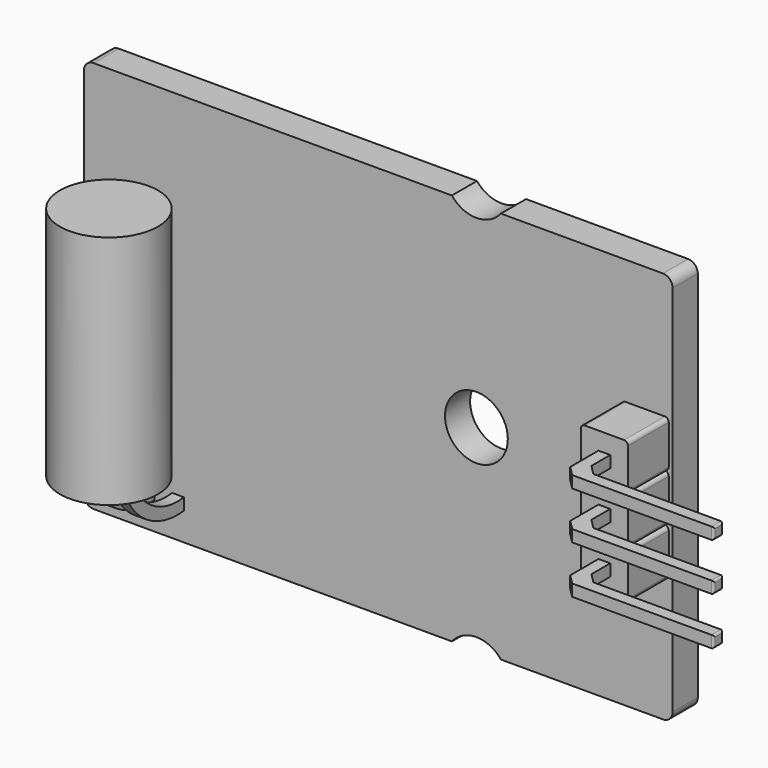
from build123d import *

# Parameters (mm, degrees)
BOX214_W                  = 0.6
BOX214_H                  = 0.6
BOX214_DEPTH              = 7.7
BOX213_W                  = 0.6
BOX213_H                  = 0.6
BOX213_DEPTH              = 7.7
CHAMFER002_SIZE           = 0.5
CHAMFER003_SIZE           = 0.5
FILLET164_R               = 0.1
BOX212_W                  = 2.4
BOX212_H                  = 2.4
BOX212_DEPTH              = 2.6
FILLET163_R               = 0.2
BOX217_W                  = 0.6
BOX217_H                  = 0.6
BOX217_DEPTH              = 7.7
BOX216_W                  = 0.6
BOX216_H                  = 0.6
BOX216_DEPTH              = 7.7
CHAMFER004_SIZE           = 0.5
CHAMFER005_SIZE           = 0.5
FILLET166_R               = 0.1
BOX215_W                  = 2.4
BOX215_H                  = 2.4
BOX215_DEPTH              = 2.6
FILLET165_R               = 0.2
BOX220_W                  = 0.6
BOX220_H                  = 0.6
BOX220_DEPTH              = 7.7
BOX219_W                  = 0.6
BOX219_H                  = 0.6
BOX219_DEPTH              = 7.7
CHAMFER006_SIZE           = 0.5
CHAMFER007_SIZE           = 0.5
FILLET168_R               = 0.1
BOX218_W                  = 2.4
BOX218_H                  = 2.4
BOX218_DEPTH              = 2.6
FILLET167_R               = 0.2
BOX221_W                  = 10
BOX221_H                  = 10
BOX221_DEPTH              = 10
BOX222_W                  = 10
BOX222_H                  = 10
BOX222_DEPTH              = 10
TUBE003_R                 = 3.6
TUBE003_R_2               = 3
TUBE003_DEPTH             = 0.6
TUBE004_R                 = 3.6
TUBE004_R_2               = 3
TUBE004_DEPTH             = 0.6
CYLINDER193_R             = 2
CYLINDER193_DEPTH         = 1
CYLINDER194_R             = 2
CYLINDER194_DEPTH         = 1
CYLINDER192_R             = 2.5
CYLINDER192_DEPTH         = 12
FUSION007_PLACEMENT_ANGLE = 90
CYLINDER191_R             = 1.6
CYLINDER191_DEPTH         = 10
CYLINDER001_R             = 1.6
CYLINDER001_DEPTH         = 10
CYLINDER190_R             = 1.6
CYLINDER190_DEPTH         = 10
BOX211_W                  = 30
BOX211_H                  = 20
BOX211_DEPTH              = 1.6
FILLET161_R               = 0.5
FILLET162_R               = 0.5
FUSION010_PLACEMENT_ANGLE = 90


with BuildPart() as cubo201:
    # Box214 → Box214 (new body)
    with BuildSketch(Plane(origin=(0, 0, 7.7), x_dir=(0, 0, -1), z_dir=(1, 0, 0))):
        with Locations((0.3, 0.3)):
            Rectangle(BOX214_W, BOX214_H)
    extrude(amount=BOX214_DEPTH)


with BuildPart() as cuerpometal:
    # Box213 → Box213 (new body)
    with BuildSketch(Plane.XY):
        with Locations((0.3, 0.3)):
            Rectangle(BOX213_W, BOX213_H)
    extrude(amount=BOX213_DEPTH)

    # Fusion139: union Cubo201
    add(cubo201.part)

    # Chamfer002
    chamfer002_edges = [cuerpometal.edges().sort_by_distance(p)[0] for p in [
        (0, 0.3, 7.7),
    ]]
    chamfer(chamfer002_edges, length=CHAMFER002_SIZE)

    # Chamfer003
    chamfer003_edges = [cuerpometal.edges().sort_by_distance(p)[0] for p in [
        (0.6, 0.3, 7.1),
    ]]
    chamfer(chamfer003_edges, length=CHAMFER003_SIZE)

    # Fillet164
    fillet164_edges = [cuerpometal.edges().sort_by_distance(p)[0] for p in [
        (7.7, 0, 7.4),
        (7.7, 0.3, 7.1),
        (7.7, 0.3, 7.7),
        (7.7, 0.6, 7.4),
    ]]
    fillet(fillet164_edges, radius=FILLET164_R)


with BuildPart() as cuerpometal_1:
    # Fillet164 placement: moved
    add(cuerpometal.part.moved(Location((0.9, 0.9, -1.2))))


with BuildPart() as obj1:
    # Box212 → Box212 (new body)
    with BuildSketch(Plane.XY.offset(1.6)):
        with Locations((1.2, 1.2)):
            Rectangle(BOX212_W, BOX212_H)
    extrude(amount=BOX212_DEPTH)

    # Fillet163
    fillet163_edges = [obj1.edges().sort_by_distance(p)[0] for p in [
        (0, 0, 2.9),
        (0, 2.4, 2.9),
        (2.4, 0, 2.9),
        (2.4, 2.4, 2.9),
    ]]
    fillet(fillet163_edges, radius=FILLET163_R)

    # Fusion001: union CuerpoMetal
    add(cuerpometal_1.part)


with BuildPart() as obj1_1:
    # Fusion001 placement: moved
    add(obj1.part.moved(Location((12.4, -1.2, 0))))


with BuildPart() as cubo204:
    # Box217 → Box217 (new body)
    with BuildSketch(Plane(origin=(0, 0, 7.7), x_dir=(0, 0, -1), z_dir=(1, 0, 0))):
        with Locations((0.3, 0.3)):
            Rectangle(BOX217_W, BOX217_H)
    extrude(amount=BOX217_DEPTH)


with BuildPart() as cuerpometal001:
    # Box216 → Box216 (new body)
    with BuildSketch(Plane.XY):
        with Locations((0.3, 0.3)):
            Rectangle(BOX216_W, BOX216_H)
    extrude(amount=BOX216_DEPTH)

    # Fusion140: union Cubo204
    add(cubo204.part)

    # Chamfer004
    chamfer004_edges = [cuerpometal001.edges().sort_by_distance(p)[0] for p in [
        (0, 0.3, 7.7),
    ]]
    chamfer(chamfer004_edges, length=CHAMFER004_SIZE)

    # Chamfer005
    chamfer005_edges = [cuerpometal001.edges().sort_by_distance(p)[0] for p in [
        (0.6, 0.3, 7.1),
    ]]
    chamfer(chamfer005_edges, length=CHAMFER005_SIZE)

    # Fillet166
    fillet166_edges = [cuerpometal001.edges().sort_by_distance(p)[0] for p in [
        (7.7, 0, 7.4),
        (7.7, 0.3, 7.1),
        (7.7, 0.3, 7.7),
        (7.7, 0.6, 7.4),
    ]]
    fillet(fillet166_edges, radius=FILLET166_R)


with BuildPart() as cuerpometal001_1:
    # Fillet166 placement: moved
    add(cuerpometal001.part.moved(Location((0.9, 0.9, -1.2))))


with BuildPart() as obj2:
    # Box215 → Box215 (new body)
    with BuildSketch(Plane.XY.offset(1.6)):
        with Locations((1.2, 1.2)):
            Rectangle(BOX215_W, BOX215_H)
    extrude(amount=BOX215_DEPTH)

    # Fillet165
    fillet165_edges = [obj2.edges().sort_by_distance(p)[0] for p in [
        (0, 0, 2.9),
        (0, 2.4, 2.9),
        (2.4, 0, 2.9),
        (2.4, 2.4, 2.9),
    ]]
    fillet(fillet165_edges, radius=FILLET165_R)

    # Fusion003: union CuerpoMetal001
    add(cuerpometal001_1.part)


with BuildPart() as obj2_1:
    # Fusion003 placement: moved
    add(obj2.part.moved(Location((12.4, 1.22, 0))))


with BuildPart() as cubo207:
    # Box220 → Box220 (new body)
    with BuildSketch(Plane(origin=(0, 0, 7.7), x_dir=(0, 0, -1), z_dir=(1, 0, 0))):
        with Locations((0.3, 0.3)):
            Rectangle(BOX220_W, BOX220_H)
    extrude(amount=BOX220_DEPTH)


with BuildPart() as cuerpometal002:
    # Box219 → Box219 (new body)
    with BuildSketch(Plane.XY):
        with Locations((0.3, 0.3)):
            Rectangle(BOX219_W, BOX219_H)
    extrude(amount=BOX219_DEPTH)

    # Fusion004: union Cubo207
    add(cubo207.part)

    # Chamfer006
    chamfer006_edges = [cuerpometal002.edges().sort_by_distance(p)[0] for p in [
        (0, 0.3, 7.7),
    ]]
    chamfer(chamfer006_edges, length=CHAMFER006_SIZE)

    # Chamfer007
    chamfer007_edges = [cuerpometal002.edges().sort_by_distance(p)[0] for p in [
        (0.6, 0.3, 7.1),
    ]]
    chamfer(chamfer007_edges, length=CHAMFER007_SIZE)

    # Fillet168
    fillet168_edges = [cuerpometal002.edges().sort_by_distance(p)[0] for p in [
        (7.7, 0, 7.4),
        (7.7, 0.3, 7.1),
        (7.7, 0.3, 7.7),
        (7.7, 0.6, 7.4),
    ]]
    fillet(fillet168_edges, radius=FILLET168_R)


with BuildPart() as cuerpometal002_1:
    # Fillet168 placement: moved
    add(cuerpometal002.part.moved(Location((0.9, 0.9, -1.2))))


with BuildPart() as obj3:
    # Box218 → Box218 (new body)
    with BuildSketch(Plane.XY.offset(1.6)):
        with Locations((1.2, 1.2)):
            Rectangle(BOX218_W, BOX218_H)
    extrude(amount=BOX218_DEPTH)

    # Fillet167
    fillet167_edges = [obj3.edges().sort_by_distance(p)[0] for p in [
        (0, 0, 2.9),
        (0, 2.4, 2.9),
        (2.4, 0, 2.9),
        (2.4, 2.4, 2.9),
    ]]
    fillet(fillet167_edges, radius=FILLET167_R)

    # Fusion005: union CuerpoMetal002
    add(cuerpometal002_1.part)


with BuildPart() as obj3_1:
    # Fusion005 placement: moved
    add(obj3.part.moved(Location((12.4, -3.64, 0))))


with BuildPart() as cubo208:
    # Box221 → Box221 (new body)
    with BuildSketch(Plane(origin=(-14, -6, 0), x_dir=(1, 0, 0), z_dir=(0, 0, 1))):
        with Locations((5, 5)):
            Rectangle(BOX221_W, BOX221_H)
    extrude(amount=BOX221_DEPTH)


with BuildPart() as cubo011:
    # Box222 → Box222 (new body)
    with BuildSketch(Plane(origin=(-14, -11, -10), x_dir=(1, 0, 0), z_dir=(0, 0, 1))):
        with Locations((5, 5)):
            Rectangle(BOX222_W, BOX222_H)
    extrude(amount=BOX222_DEPTH)


with BuildPart() as tube003:
    # Tube003 → Tube003 (new body)
    with BuildSketch(Plane(origin=(-12, -5, 2), x_dir=(0, 0, -1), z_dir=(1, 0, 0))):
        Circle(TUBE003_R)
        Circle(TUBE003_R_2, mode=Mode.SUBTRACT)
    extrude(amount=TUBE003_DEPTH)


with BuildPart() as sensor:
    # Tube004 → Tube004 (new body)
    with BuildSketch(Plane(origin=(-10.5, -5, 2), x_dir=(0, 0, -1), z_dir=(1, 0, 0))):
        Circle(TUBE004_R)
        Circle(TUBE004_R_2, mode=Mode.SUBTRACT)
    extrude(amount=TUBE004_DEPTH)

    # Fusion008: union Tube003
    add(tube003.part)

    # Cut262: cut Cubo011
    add(cubo011.part, mode=Mode.SUBTRACT)

    # Cut263: cut Cubo208
    add(cubo208.part, mode=Mode.SUBTRACT)


with BuildPart() as cilindro193:
    # Cylinder193 → Cylinder193 (new body)
    with BuildSketch(Plane.XY):
        Circle(CYLINDER193_R)
    extrude(amount=CYLINDER193_DEPTH)


with BuildPart() as cilindro194:
    # Cylinder194 → Cylinder194 (new body)
    with BuildSketch(Plane.XY.offset(11)):
        Circle(CYLINDER194_R)
    extrude(amount=CYLINDER194_DEPTH)


with BuildPart() as fusion009:
    # Cylinder192 → Cylinder192 (new body)
    with BuildSketch(Plane.XY):
        Circle(CYLINDER192_R)
    extrude(amount=CYLINDER192_DEPTH)

    # Fusion006: union Cilindro194
    add(cilindro194.part)

    # Fusion007: union Cilindro193
    add(cilindro193.part)


with BuildPart() as fusion009_1:
    # Fusion007 placement: moved
    add(fusion009.part.moved(Location((-11, 6, 5))).rotate(Axis((-11, 6, 5), (1, 0, 0)), FUSION007_PLACEMENT_ANGLE))

    # Fusion009: union Sensor
    add(sensor.part)


with BuildPart() as cilindro191:
    # Cylinder191 → Cylinder191 (new body)
    with BuildSketch(Plane(origin=(5, 11, 0), x_dir=(1, 0, 0), z_dir=(0, 0, 1))):
        Circle(CYLINDER191_R)
    extrude(amount=CYLINDER191_DEPTH)


with BuildPart() as cilindro001:
    # Cylinder001 → Cylinder001 (new body)
    with BuildSketch(Plane(origin=(5, -11, 0), x_dir=(1, 0, 0), z_dir=(0, 0, 1))):
        Circle(CYLINDER001_R)
    extrude(amount=CYLINDER001_DEPTH)


with BuildPart() as cilindro190:
    # Cylinder190 → Cylinder190 (new body)
    with BuildSketch(Plane(origin=(5, 0, 0), x_dir=(1, 0, 0), z_dir=(0, 0, 1))):
        Circle(CYLINDER190_R)
    extrude(amount=CYLINDER190_DEPTH)


with BuildPart() as obj4:
    # Box211 → Box211 (new body)
    with BuildSketch(Plane.XY):
        with Locations((15, 10)):
            Rectangle(BOX211_W, BOX211_H)
    extrude(amount=BOX211_DEPTH)

    # Fillet161
    fillet161_edges = [obj4.edges().sort_by_distance(p)[0] for p in [
        (0, 0, 0.8),
        (0, 20, 0.8),
        (30, 20, 0.8),
    ]]
    fillet(fillet161_edges, radius=FILLET161_R)

    # Fillet162
    fillet162_edges = [obj4.edges().sort_by_distance(p)[0] for p in [
        (30, 0, 0.8),
    ]]
    fillet(fillet162_edges, radius=FILLET162_R)


with BuildPart() as obj4_1:
    # Fillet162 placement: moved
    add(obj4.part.moved(Location((-15, -10, 0))))

    # Cut259: cut Cilindro190
    add(cilindro190.part, mode=Mode.SUBTRACT)

    # Cut260: cut Cilindro001
    add(cilindro001.part, mode=Mode.SUBTRACT)

    # Cut261: cut Cilindro191
    add(cilindro191.part, mode=Mode.SUBTRACT)

    # Fusion010: union obj1, obj2, obj3, Fusion009
    add(obj1_1.part)
    add(obj2_1.part)
    add(obj3_1.part)
    add(fusion009_1.part)


with BuildPart() as obj4_2:
    # Fusion010 placement: moved
    add(obj4_1.part.moved(Location((0, 1, -0.6))).rotate(Axis((0, 1, -0.6), (1, 0, 0)), FUSION010_PLACEMENT_ANGLE))


solid = obj4_2.part
